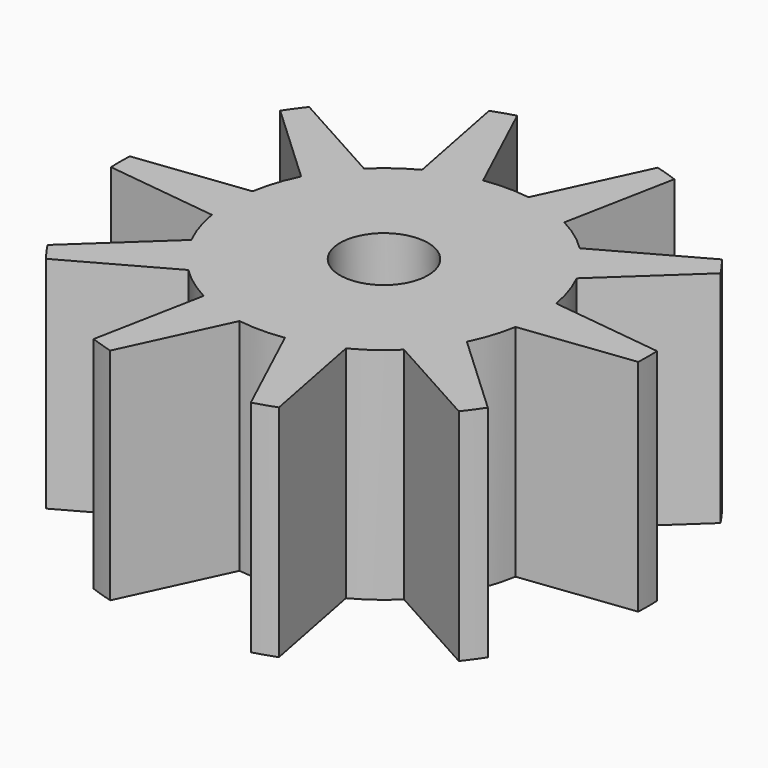
from build123d import *

# Parameters (mm, degrees)
F0_R     = 6
F0_R_2   = 2.5
F1_DEPTH = 5
F3_DEPTH = 25
F4_R     = 2.35
F5_DEPTH = 3
F6_R     = 1
F7_DEPTH = 25


with BuildPart() as f1:
    # F0 (on Top) → F1 (new body)
    with BuildSketch(Plane.XY):
        Circle(F0_R)
        Circle(F0_R_2, mode=Mode.SUBTRACT)
        Circle(F0_R_2)
    extrude(amount=F1_DEPTH)

    # F2 (on face) → F3 (cut)
    with BuildSketch(Plane(origin=(0, 0, 0), x_dir=(1, 0, 0), z_dir=(0, 0, -1))):
        with BuildLine():
            ThreePointArc((-0.5161768662, 3.4617281006), (0, 3.5), (0.5161768662, 3.4617281006))
            Line((0.5161768662, 3.4617281006), (1.5986529108, 5.7831054695))
            ThreePointArc((1.5986529108, 5.7831054695), (0, 6), (-1.5986529108, 5.7831054695))
            Line((-1.5986529108, 5.7831054695), (-0.5161768662, 3.4617281006))
        make_face()
        with BuildLine():
            ThreePointArc((-0.5161768662, 3.4617281006), (0, 3.5), (0.5161768662, 3.4617281006))
            Line((0.5161768662, 3.4617281006), (1.5986529108, 5.7831054695))
            ThreePointArc((1.5986529108, 5.7831054695), (0, 6), (-1.5986529108, 5.7831054695))
            Line((-1.5986529108, 5.7831054695), (-0.5161768662, 3.4617281006))
        make_face()
        with BuildLine():
            ThreePointArc((-2.4523485819, 2.4971957138), (-2.057248383, 2.8315594803), (-1.6171568681, 3.1039980129))
            Line((-1.6171568681, 3.1039980129), (-2.1058867345, 5.6182952095))
            ThreePointArc((-2.1058867345, 5.6182952095), (-3.5267115138, 4.8541019662), (-4.6925614803, 3.7389660006))
            Line((-4.6925614803, 3.7389660006), (-2.4523485819, 2.4971957138))
        make_face()
        with BuildLine():
            ThreePointArc((-3.4518064915, 0.5788194408), (-3.328697807, 1.0815594803), (-3.132791644, 1.5606461852))
            Line((-3.132791644, 1.5606461852), (-5.0060492236, 3.3074871384))
            ThreePointArc((-5.0060492236, 3.3074871384), (-5.7063390978, 1.8541019662), (-5.9940710587, 0.2666686023))
            Line((-5.9940710587, 0.2666686023), (-3.4518064915, 0.5788194408))
        make_face()
        with BuildLine():
            Line((-5.0060492236, -3.3074871384), (-3.132791644, -1.5606461852))
            ThreePointArc((-3.132791644, -1.5606461852), (-3.328697807, -1.0815594803), (-3.4518064915, -0.5788194408))
            Line((-3.4518064915, -0.5788194408), (-5.9940710587, -0.2666686023))
            ThreePointArc((-5.9940710587, -0.2666686023), (-5.7063390978, -1.8541019662), (-5.0060492236, -3.3074871384))
        make_face()
        with BuildLine():
            Line((-2.1058867345, -5.6182952095), (-1.6171568681, -3.1039980129))
            ThreePointArc((-1.6171568681, -3.1039980129), (-2.057248383, -2.8315594803), (-2.4523485819, -2.4971957138))
            Line((-2.4523485819, -2.4971957138), (-4.6925614803, -3.7389660006))
            ThreePointArc((-4.6925614803, -3.7389660006), (-3.5267115138, -4.8541019662), (-2.1058867345, -5.6182952095))
        make_face()
        with BuildLine():
            Line((1.5986529108, -5.7831054695), (0.5161768662, -3.4617281006))
            ThreePointArc((0.5161768662, -3.4617281006), (0, -3.5), (-0.5161768662, -3.4617281006))
            Line((-0.5161768662, -3.4617281006), (-1.5986529108, -5.7831054695))
            ThreePointArc((-1.5986529108, -5.7831054695), (0, -6), (1.5986529108, -5.7831054695))
        make_face()
        with BuildLine():
            Line((4.6925614803, -3.7389660006), (2.4523485819, -2.4971957138))
            ThreePointArc((2.4523485819, -2.4971957138), (2.057248383, -2.8315594803), (1.6171568681, -3.1039980129))
            Line((1.6171568681, -3.1039980129), (2.1058867345, -5.6182952095))
            ThreePointArc((2.1058867345, -5.6182952095), (3.5267115138, -4.8541019662), (4.6925614803, -3.7389660006))
        make_face()
        with BuildLine():
            Line((5.9940710587, -0.2666686023), (3.4518064915, -0.5788194408))
            ThreePointArc((3.4518064915, -0.5788194408), (3.328697807, -1.0815594803), (3.132791644, -1.5606461852))
            Line((3.132791644, -1.5606461852), (5.0060492236, -3.3074871384))
            ThreePointArc((5.0060492236, -3.3074871384), (5.7063390978, -1.8541019662), (5.9940710587, -0.2666686023))
        make_face()
        with BuildLine():
            ThreePointArc((3.132791644, 1.5606461852), (3.328697807, 1.0815594803), (3.4518064915, 0.5788194408))
            Line((3.4518064915, 0.5788194408), (5.9940710587, 0.2666686023))
            ThreePointArc((5.9940710587, 0.2666686023), (5.7063390978, 1.8541019662), (5.0060492236, 3.3074871384))
            Line((5.0060492236, 3.3074871384), (3.132791644, 1.5606461852))
        make_face()
        with BuildLine():
            ThreePointArc((1.6171568681, 3.1039980129), (2.057248383, 2.8315594803), (2.4523485819, 2.4971957138))
            Line((2.4523485819, 2.4971957138), (4.6925614803, 3.7389660006))
            ThreePointArc((4.6925614803, 3.7389660006), (3.5267115138, 4.8541019662), (2.1058867345, 5.6182952095))
            Line((2.1058867345, 5.6182952095), (1.6171568681, 3.1039980129))
        make_face()
        with BuildLine():
            ThreePointArc((-0.5161768662, 3.4617281006), (0, 3.5), (0.5161768662, 3.4617281006))
            Line((0.5161768662, 3.4617281006), (1.5986529108, 5.7831054695))
            ThreePointArc((1.5986529108, 5.7831054695), (0, 6), (-1.5986529108, 5.7831054695))
            Line((-1.5986529108, 5.7831054695), (-0.5161768662, 3.4617281006))
        make_face()
        with BuildLine():
            ThreePointArc((3.132791644, 1.5606461852), (3.328697807, 1.0815594803), (3.4518064915, 0.5788194408))
            Line((3.4518064915, 0.5788194408), (5.9940710587, 0.2666686023))
            ThreePointArc((5.9940710587, 0.2666686023), (5.7063390978, 1.8541019662), (5.0060492236, 3.3074871384))
            Line((5.0060492236, 3.3074871384), (3.132791644, 1.5606461852))
        make_face()
        with BuildLine():
            Line((5.9940710587, -0.2666686023), (3.4518064915, -0.5788194408))
            ThreePointArc((3.4518064915, -0.5788194408), (3.328697807, -1.0815594803), (3.132791644, -1.5606461852))
            Line((3.132791644, -1.5606461852), (5.0060492236, -3.3074871384))
            ThreePointArc((5.0060492236, -3.3074871384), (5.7063390978, -1.8541019662), (5.9940710587, -0.2666686023))
        make_face()
        with BuildLine():
            Line((4.6925614803, -3.7389660006), (2.4523485819, -2.4971957138))
            ThreePointArc((2.4523485819, -2.4971957138), (2.057248383, -2.8315594803), (1.6171568681, -3.1039980129))
            Line((1.6171568681, -3.1039980129), (2.1058867345, -5.6182952095))
            ThreePointArc((2.1058867345, -5.6182952095), (3.5267115138, -4.8541019662), (4.6925614803, -3.7389660006))
        make_face()
        with BuildLine():
            Line((1.5986529108, -5.7831054695), (0.5161768662, -3.4617281006))
            ThreePointArc((0.5161768662, -3.4617281006), (0, -3.5), (-0.5161768662, -3.4617281006))
            Line((-0.5161768662, -3.4617281006), (-1.5986529108, -5.7831054695))
            ThreePointArc((-1.5986529108, -5.7831054695), (0, -6), (1.5986529108, -5.7831054695))
        make_face()
        with BuildLine():
            Line((-2.1058867345, -5.6182952095), (-1.6171568681, -3.1039980129))
            ThreePointArc((-1.6171568681, -3.1039980129), (-2.057248383, -2.8315594803), (-2.4523485819, -2.4971957138))
            Line((-2.4523485819, -2.4971957138), (-4.6925614803, -3.7389660006))
            ThreePointArc((-4.6925614803, -3.7389660006), (-3.5267115138, -4.8541019662), (-2.1058867345, -5.6182952095))
        make_face()
        with BuildLine():
            Line((-5.0060492236, -3.3074871384), (-3.132791644, -1.5606461852))
            ThreePointArc((-3.132791644, -1.5606461852), (-3.328697807, -1.0815594803), (-3.4518064915, -0.5788194408))
            Line((-3.4518064915, -0.5788194408), (-5.9940710587, -0.2666686023))
            ThreePointArc((-5.9940710587, -0.2666686023), (-5.7063390978, -1.8541019662), (-5.0060492236, -3.3074871384))
        make_face()
        with BuildLine():
            ThreePointArc((-3.4518064915, 0.5788194408), (-3.328697807, 1.0815594803), (-3.132791644, 1.5606461852))
            Line((-3.132791644, 1.5606461852), (-5.0060492236, 3.3074871384))
            ThreePointArc((-5.0060492236, 3.3074871384), (-5.7063390978, 1.8541019662), (-5.9940710587, 0.2666686023))
            Line((-5.9940710587, 0.2666686023), (-3.4518064915, 0.5788194408))
        make_face()
        with BuildLine():
            ThreePointArc((-2.4523485819, 2.4971957138), (-2.057248383, 2.8315594803), (-1.6171568681, 3.1039980129))
            Line((-1.6171568681, 3.1039980129), (-2.1058867345, 5.6182952095))
            ThreePointArc((-2.1058867345, 5.6182952095), (-3.5267115138, 4.8541019662), (-4.6925614803, 3.7389660006))
            Line((-4.6925614803, 3.7389660006), (-2.4523485819, 2.4971957138))
        make_face()
    extrude(amount=-F3_DEPTH, mode=Mode.SUBTRACT)

    # F4 (on face) → F5 (cut)
    with BuildSketch(Plane(origin=(0, 0, 0), x_dir=(1, 0, 0), z_dir=(0, 0, -1))):
        Circle(F4_R)
    extrude(amount=-F5_DEPTH, mode=Mode.SUBTRACT)

    # F6 (on face) → F7 (cut)
    with BuildSketch(Plane(origin=(0, 0, 0), x_dir=(1, 0, 0), z_dir=(0, 0, -1))):
        Circle(F6_R)
    extrude(amount=-F7_DEPTH, mode=Mode.SUBTRACT)


solid = f1.part
